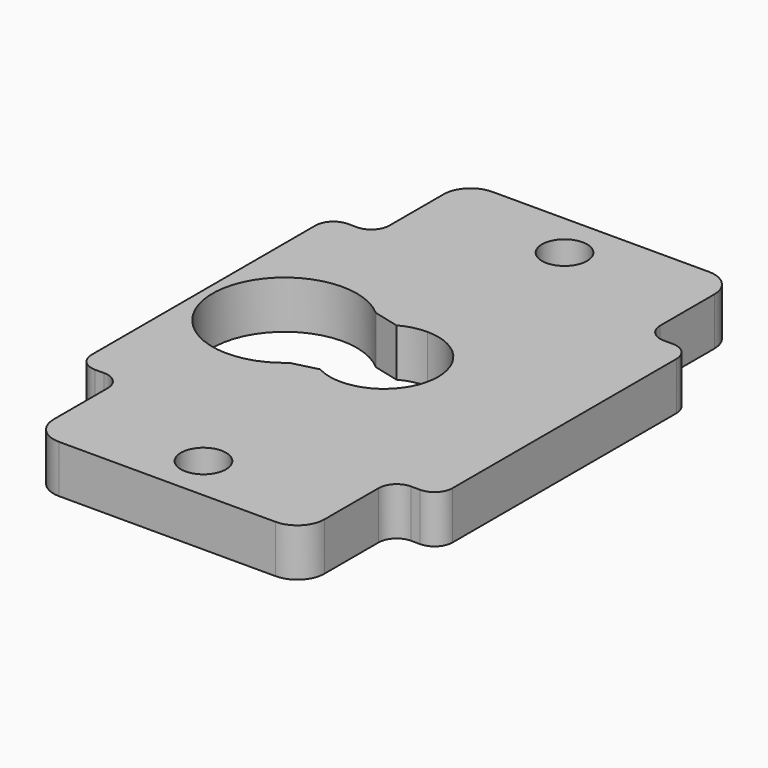
from build123d import *

# Parameters (mm, degrees)
F0_R     = 2.5
F1_DEPTH = 5.3


with BuildPart() as f1:
    # F0 (on Top) → F1 (new body)
    with BuildSketch(Plane.XY):
        with BuildLine():
            Line((-12, -30), (12, -30))
            ThreePointArc((12, -30), (14.12132, -29.12132), (15, -27))
            Line((15, -27), (15, -19.5))
            ThreePointArc((15, -19.5), (15.585786, -18.085786), (17, -17.5))
            Line((17, -17.5), (18, -17.5))
            ThreePointArc((18, -17.5), (19.414214, -16.914214), (20, -15.5))
            Line((20, -15.5), (20, 15.5))
            ThreePointArc((20, 15.5), (19.414214, 16.914214), (18, 17.5))
            Line((18, 17.5), (17, 17.5))
            ThreePointArc((17, 17.5), (15.585786, 18.085786), (15, 19.5))
            Line((15, 19.5), (15, 27))
            ThreePointArc((15, 27), (14.12132, 29.12132), (12, 30))
            Line((12, 30), (-12, 30))
            ThreePointArc((-12, 30), (-14.12132, 29.12132), (-15, 27))
            Line((-15, 27), (-15, 19.5))
            ThreePointArc((-15, 19.5), (-15.585786, 18.085786), (-17, 17.5))
            Line((-17, 17.5), (-18, 17.5))
            ThreePointArc((-18, 17.5), (-19.414214, 16.914214), (-20, 15.5))
            Line((-20, 15.5), (-20, -15.5))
            ThreePointArc((-20, -15.5), (-19.414214, -16.914214), (-18, -17.5))
            Line((-18, -17.5), (-17, -17.5))
            ThreePointArc((-17, -17.5), (-15.585786, -18.085786), (-15, -19.5))
            Line((-15, -19.5), (-15, -27))
            ThreePointArc((-15, -27), (-14.12132, -29.12132), (-12, -30))
        make_face()
        with Locations((0, -25)):
            Circle(F0_R, mode=Mode.SUBTRACT)
        with BuildLine():
            ThreePointArc((-5.708497, -6), (-19, 0), (-5.708497, 6))
            Line((-5.708497, 6), (-2.854249, 5.277619))
            ThreePointArc((-2.854249, 5.277619), (-1.472122, 5.816602), (0, 6))
            ThreePointArc((0, 6), (6, 0), (0, -6))
            ThreePointArc((0, -6), (-1.472122, -5.816602), (-2.854249, -5.277619))
            Line((-2.854249, -5.277619), (-5.708497, -6))
        make_face(mode=Mode.SUBTRACT)
        with Locations((0, 25)):
            Circle(F0_R, mode=Mode.SUBTRACT)
    extrude(amount=F1_DEPTH)


solid = f1.part
